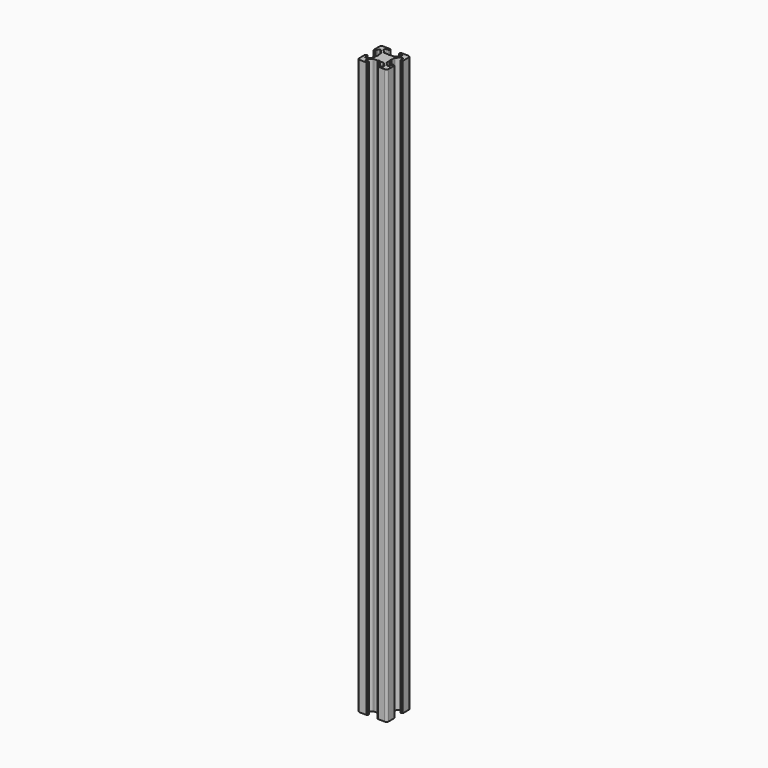
from build123d import *

# Parameters (mm, degrees)
PAD_DEPTH    = 390
POCKET_DEPTH = 390.001


with BuildPart() as pad:
    # Sketch → Pad (new body)
    with BuildSketch(Plane(origin=(1.5, 0, 0), x_dir=(1, 0, 0), z_dir=(0, 0, 1))):
        with BuildLine():
            Line((0, 20), (4.65, 20))
            ThreePointArc((4.85, 19.8), (4.791421, 19.941421), (4.65, 20))
            Line((4.85, 19.8), (4.85, 19.5))
            Line((4.85, 19.5), (5.2, 19.5))
            ThreePointArc((5.4, 19.3), (5.341421, 19.441421), (5.2, 19.5))
            Line((5.4, 19.3), (5.4, 19))
            ThreePointArc((4.9, 18.5), (5.253553, 18.646446), (5.4, 19))
            Line((4.9, 18.5), (2.999999, 18.5))
            ThreePointArc((2.999999, 18.5), (2.646446, 18.353553), (2.499999, 18))
            Line((2.499999, 18), (2.499999, 17.267767))
            ThreePointArc((2.499999, 17.267767), (2.53806, 17.076425), (2.646446, 16.914213))
            Line((2.646446, 16.914213), (4.914213, 14.646447))
            ThreePointArc((4.914213, 14.646447), (5.076424, 14.53806), (5.267766, 14.5))
            Line((5.267766, 14.5), (7.54641, 14.5))
            ThreePointArc((7.64641, 14.473205), (7.598173, 14.493185), (7.54641, 14.5))
            Line((7.64641, 14.473205), (8.4, 14.03812))
            ThreePointArc((8.4, 14.03812), (8.5, 14.011325), (8.6, 14.03812))
            Line((8.6, 14.03812), (9.35359, 14.473205))
            ThreePointArc((9.45359, 14.5), (9.401827, 14.493185), (9.35359, 14.473205))
            Line((9.45359, 14.5), (11.732234, 14.5))
            ThreePointArc((11.732234, 14.5), (11.923576, 14.53806), (12.085787, 14.646447))
            Line((12.085787, 14.646447), (14.353554, 16.914213))
            ThreePointArc((14.353554, 16.914213), (14.46194, 17.076425), (14.500001, 17.267767))
            Line((14.500001, 17.267767), (14.500001, 18))
            ThreePointArc((14.500001, 18), (14.353554, 18.353553), (14.000001, 18.5))
            Line((14.000001, 18.5), (12.1, 18.5))
            ThreePointArc((11.6, 19), (11.746447, 18.646446), (12.1, 18.5))
            Line((11.6, 19), (11.6, 19.3))
            ThreePointArc((11.8, 19.5), (11.658579, 19.441421), (11.6, 19.3))
            Line((11.8, 19.5), (12.15, 19.5))
            Line((12.15, 19.5), (12.15, 19.8))
            ThreePointArc((12.35, 20), (12.208579, 19.941421), (12.15, 19.8))
            Line((12.35, 20), (17, 20))
            ThreePointArc((18.5, 18.5), (18.06066, 19.56066), (17, 20))
            Line((18.5, 18.5), (18.5, 13.85))
            ThreePointArc((18.3, 13.65), (18.441421, 13.708578), (18.5, 13.85))
            Line((18.3, 13.65), (18, 13.65))
            Line((18, 13.65), (18, 13.3))
            ThreePointArc((17.8, 13.1), (17.941421, 13.158579), (18, 13.3))
            Line((17.8, 13.1), (17.5, 13.1))
            ThreePointArc((17, 13.6), (17.146446, 13.246447), (17.5, 13.1))
            Line((17, 13.6), (17, 15.5))
            ThreePointArc((17, 15.5), (16.853553, 15.853553), (16.5, 16))
            Line((16.5, 16), (15.767767, 16))
            ThreePointArc((15.767767, 16), (15.576425, 15.961939), (15.414213, 15.853553))
            Line((15.414213, 15.853553), (13.146446, 13.585786))
            ThreePointArc((13.146446, 13.585786), (13.03806, 13.423574), (13, 13.232233))
            Line((13, 13.232233), (13, 10.953589))
            ThreePointArc((12.973205, 10.853589), (12.993185, 10.901825), (13, 10.953589))
            Line((12.973205, 10.853589), (12.53812, 10.1))
            ThreePointArc((12.53812, 10.1), (12.511325, 10), (12.53812, 9.9))
            Line((12.53812, 9.9), (12.973205, 9.146411))
            ThreePointArc((13, 9.046411), (12.993185, 9.098175), (12.973205, 9.146411))
            Line((13, 9.046411), (13, 6.767767))
            ThreePointArc((13, 6.767767), (13.03806, 6.576426), (13.146446, 6.414214))
            Line((13.146446, 6.414214), (15.414213, 4.146447))
            ThreePointArc((15.414213, 4.146447), (15.576425, 4.038061), (15.767767, 4))
            Line((15.767767, 4), (16.5, 4))
            ThreePointArc((16.5, 4), (16.853553, 4.146447), (17, 4.5))
            Line((17, 4.5), (17, 6.4))
            ThreePointArc((17.5, 6.9), (17.146446, 6.753553), (17, 6.4))
            Line((17.5, 6.9), (17.8, 6.9))
            ThreePointArc((18, 6.7), (17.941421, 6.841421), (17.8, 6.9))
            Line((18, 6.7), (18, 6.35))
            Line((18, 6.35), (18.3, 6.35))
            ThreePointArc((18.5, 6.15), (18.441421, 6.291422), (18.3, 6.35))
            Line((18.5, 6.15), (18.5, 1.5))
            ThreePointArc((17, 0), (18.06066, 0.43934), (18.5, 1.5))
            Line((17, 0), (12.35, 0))
            ThreePointArc((12.15, 0.2), (12.208579, 0.058579), (12.35, 0))
            Line((12.15, 0.2), (12.15, 0.5))
            Line((12.15, 0.5), (11.8, 0.5))
            ThreePointArc((11.6, 0.7), (11.658579, 0.558579), (11.8, 0.5))
            Line((11.6, 0.7), (11.6, 1))
            ThreePointArc((12.1, 1.5), (11.746447, 1.353554), (11.6, 1))
            Line((12.1, 1.5), (14.000001, 1.5))
            ThreePointArc((14.000001, 1.5), (14.353554, 1.646447), (14.500001, 2))
            Line((14.500001, 2), (14.500001, 2.732233))
            ThreePointArc((14.500001, 2.732233), (14.46194, 2.923575), (14.353554, 3.085787))
            Line((14.353554, 3.085787), (12.085787, 5.353553))
            ThreePointArc((12.085787, 5.353553), (11.923576, 5.46194), (11.732234, 5.5))
            Line((11.732234, 5.5), (9.45359, 5.5))
            ThreePointArc((9.35359, 5.526795), (9.401827, 5.506815), (9.45359, 5.5))
            Line((9.35359, 5.526795), (8.6, 5.96188))
            ThreePointArc((8.6, 5.96188), (8.5, 5.988675), (8.4, 5.96188))
            Line((8.4, 5.96188), (7.64641, 5.526795))
            ThreePointArc((7.54641, 5.5), (7.598173, 5.506815), (7.64641, 5.526795))
            Line((7.54641, 5.5), (5.267766, 5.5))
            ThreePointArc((5.267766, 5.5), (5.076424, 5.46194), (4.914213, 5.353553))
            Line((4.914213, 5.353553), (2.646446, 3.085787))
            ThreePointArc((2.646446, 3.085787), (2.53806, 2.923575), (2.499999, 2.732233))
            Line((2.499999, 2.732233), (2.499999, 2))
            ThreePointArc((2.499999, 2), (2.646446, 1.646447), (2.999999, 1.5))
            Line((2.999999, 1.5), (4.9, 1.5))
            ThreePointArc((5.4, 1), (5.253553, 1.353554), (4.9, 1.5))
            Line((5.4, 1), (5.4, 0.7))
            ThreePointArc((5.2, 0.5), (5.341421, 0.558579), (5.4, 0.7))
            Line((5.2, 0.5), (4.85, 0.5))
            Line((4.85, 0.5), (4.85, 0.2))
            ThreePointArc((4.65, 0), (4.791421, 0.058579), (4.85, 0.2))
            Line((4.65, 0), (0, 0))
            ThreePointArc((-1.5, 1.5), (-1.06066, 0.43934), (0, 0))
            Line((-1.5, 1.5), (-1.5, 6.15))
            ThreePointArc((-1.3, 6.35), (-1.441421, 6.291422), (-1.5, 6.15))
            Line((-1.3, 6.35), (-1, 6.35))
            Line((-1, 6.35), (-1, 6.7))
            ThreePointArc((-0.8, 6.9), (-0.941421, 6.841421), (-1, 6.7))
            Line((-0.8, 6.9), (-0.5, 6.9))
            ThreePointArc((0, 6.4), (-0.146446, 6.753553), (-0.5, 6.9))
            Line((0, 6.4), (0, 4.5))
            ThreePointArc((0, 4.5), (0.146447, 4.146447), (0.5, 4))
            Line((0.5, 4), (1.232233, 4))
            ThreePointArc((1.232233, 4), (1.423575, 4.038061), (1.585787, 4.146447))
            Line((1.585787, 4.146447), (3.853554, 6.414214))
            ThreePointArc((3.853554, 6.414214), (3.96194, 6.576426), (4, 6.767767))
            Line((4, 6.767767), (4, 9.046411))
            ThreePointArc((4.026795, 9.146411), (4.006815, 9.098175), (4, 9.046411))
            Line((4.026795, 9.146411), (4.46188, 9.9))
            ThreePointArc((4.46188, 9.9), (4.488675, 10), (4.46188, 10.1))
            Line((4.46188, 10.1), (4.026795, 10.853589))
            ThreePointArc((4, 10.953589), (4.006815, 10.901825), (4.026795, 10.853589))
            Line((4, 10.953589), (4, 13.232233))
            ThreePointArc((4, 13.232233), (3.96194, 13.423574), (3.853554, 13.585786))
            Line((3.853554, 13.585786), (1.585787, 15.853553))
            ThreePointArc((1.585787, 15.853553), (1.423575, 15.961939), (1.232233, 16))
            Line((1.232233, 16), (0.5, 16))
            ThreePointArc((0.5, 16), (0.146447, 15.853553), (0, 15.5))
            Line((0, 15.5), (0, 13.6))
            ThreePointArc((-0.5, 13.1), (-0.146446, 13.246447), (0, 13.6))
            Line((-0.5, 13.1), (-0.8, 13.1))
            ThreePointArc((-1, 13.3), (-0.941421, 13.158579), (-0.8, 13.1))
            Line((-1, 13.3), (-1, 13.65))
            Line((-1, 13.65), (-1.3, 13.65))
            ThreePointArc((-1.5, 13.85), (-1.441421, 13.708578), (-1.3, 13.65))
            Line((-1.5, 13.85), (-1.5, 18.5))
            ThreePointArc((0, 20), (-1.06066, 19.56066), (-1.5, 18.5))
        make_face()
    extrude(amount=PAD_DEPTH)


with BuildPart() as pocket:
    # Pocket base: copy of Pad
    add(pad.part)

    # Sketch001 → Pocket (cut, through all)
    with BuildSketch(Plane(origin=(1.5, 0, 390), x_dir=(1, 0, 0), z_dir=(0, 0, 1))):
        with BuildLine():
            ThreePointArc((6.586105, 12.989641), (5.988263, 12.50841), (5.507825, 11.909931))
            Line((6.054705, 11.258185), (5.507825, 11.909931))
            ThreePointArc((6.054705, 11.258185), (5.75, 10), (6.054705, 8.741815))
            Line((5.507825, 8.090069), (6.054705, 8.741815))
            ThreePointArc((5.507825, 8.090069), (5.988263, 7.49159), (6.586105, 7.010359))
            Line((7.241815, 7.554705), (6.586105, 7.010359))
            ThreePointArc((7.241815, 7.554705), (8.5, 7.25), (9.758185, 7.554705))
            Line((10.413895, 7.010359), (9.758185, 7.554705))
            ThreePointArc((10.413895, 7.010359), (11.011737, 7.49159), (11.492175, 8.090069))
            Line((10.945295, 8.741815), (11.492175, 8.090069))
            ThreePointArc((10.945295, 8.741815), (11.25, 10), (10.945295, 11.258185))
            Line((11.492175, 11.909931), (10.945295, 11.258185))
            ThreePointArc((11.492175, 11.909931), (11.011737, 12.50841), (10.413895, 12.989641))
            Line((9.758185, 12.445295), (10.413895, 12.989641))
            ThreePointArc((9.758185, 12.445295), (8.5, 12.75), (7.241815, 12.445295))
            Line((6.586105, 12.989641), (7.241815, 12.445295))
        make_face()
    extrude(amount=-POCKET_DEPTH, mode=Mode.SUBTRACT)


with BuildPart() as fusion:
    # Fusion base: copy of Pad
    add(pad.part)

    # Fusion: union Pocket
    add(pocket.part)


solid = fusion.part
